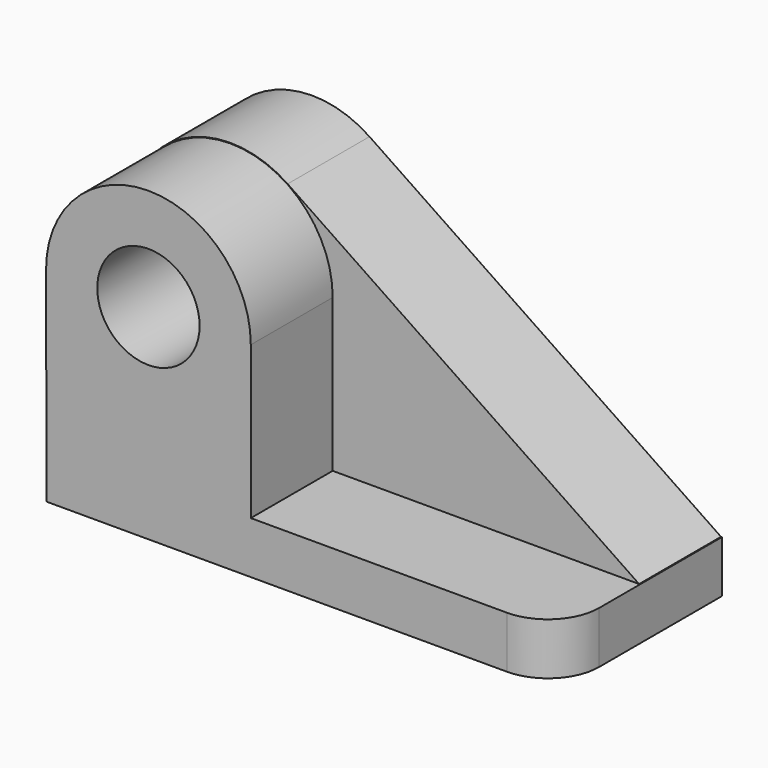
from build123d import *

# Parameters (mm, degrees)
F0_R     = 12.7
F1_DEPTH = 25.4
F2_R     = 12.7
F3_DEPTH = 50.8
F4_R     = 12.7


with BuildPart() as f1:
    # F0 (on Front) → F1 (new body)
    with BuildSketch(Plane.XZ):
        with BuildLine():
            Line((60.317927, -4.766353), (-27.044199, 54.367976))
            ThreePointArc((-27.044199, 54.367976), (-53.188332, 55.770247), (-66.682073, 33.333647))
            Line((-66.682073, 33.333647), (-66.682073, -17.466353))
            Line((-66.682073, -17.466353), (60.317927, -17.466353))
            Line((60.317927, -17.466353), (60.317927, -4.766353))
        make_face()
        with Locations((-41.282073, 33.333647)):
            Circle(F0_R, mode=Mode.SUBTRACT)
    extrude(amount=F1_DEPTH)

    # F2 (on Front) → F3 (join)
    with BuildSketch(Plane.XZ):
        with BuildLine():
            Line((-15.862083, -4.67199), (-15.862083, 33.193771))
            ThreePointArc((-15.862083, 33.193771), (-41.262083, 58.593771), (-66.662083, 33.193771))
            ThreePointArc((-66.662083, 33.193771), (-66.662036, 33.145056), (-66.661896, 33.096341))
            Line((-66.661896, 33.096341), (-66.58946, -4.67199))
            Line((-66.58946, -4.67199), (-66.58946, -17.566571))
            Line((-66.58946, -17.566571), (60.406737, -17.566571))
            Line((60.406737, -17.566571), (60.406737, -4.67199))
            Line((60.406737, -4.67199), (-15.862083, -4.67199))
        make_face()
        with Locations((-41.262083, 33.193771)):
            Circle(F2_R, mode=Mode.SUBTRACT)
    extrude(amount=F3_DEPTH)

    # F4
    f4_edges = [f1.edges().sort_by_distance(p)[0] for p in [
        (60.406737, -50.8, -11.11928),
    ]]
    fillet(f4_edges, radius=F4_R)


solid = f1.part
